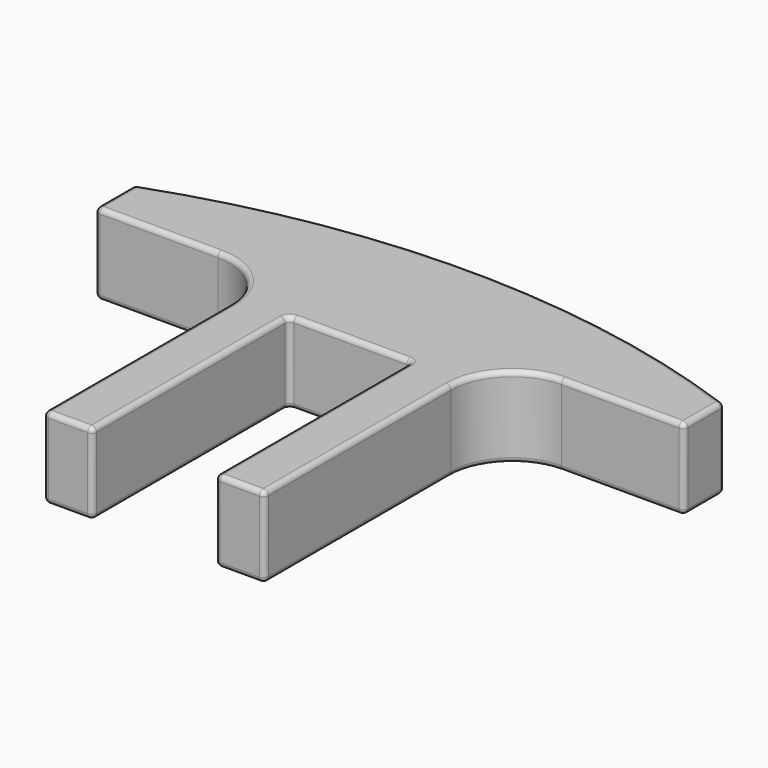
from build123d import *

# Parameters (mm, degrees)
F1_DEPTH = 8.382
F2_R     = 0.508


with BuildPart() as f1:
    # F0 (on Top) → F1 (new body)
    with BuildSketch(Plane.XY):
        with BuildLine():
            Line((-16.819511, 28.70391), (-16.819511, 4.57391))
            Line((-16.819511, 4.57391), (-11.739511, 4.57391))
            Line((-11.739511, 4.57391), (-11.739511, 29.97391))
            Line((-11.739511, 29.97391), (0.960489, 29.97391))
            Line((0.960489, 29.97391), (0.960489, 4.57391))
            Line((0.960489, 4.57391), (6.040489, 4.57391))
            Line((6.040489, 4.57391), (6.040489, 28.70391))
            ThreePointArc((6.040489, 28.70391), (7.900361, 33.194038), (12.390489, 35.05391))
            Line((12.390489, 35.05391), (25.090489, 35.05391))
            Line((25.090489, 35.05391), (25.090489, 40.13391))
            ThreePointArc((25.090489, 40.13391), (-5.389511, 45.511487), (-35.869511, 40.13391))
            Line((-35.869511, 40.13391), (-35.869511, 35.05391))
            Line((-35.869511, 35.05391), (-23.169511, 35.05391))
            ThreePointArc((-23.169511, 35.05391), (-18.679383, 33.194038), (-16.819511, 28.70391))
        make_face()
        with BuildLine():
            Line((-16.819511, 28.70391), (-16.819511, 4.57391))
            Line((-16.819511, 4.57391), (-11.739511, 4.57391))
            Line((-11.739511, 4.57391), (-11.739511, 29.97391))
            Line((-11.739511, 29.97391), (0.960489, 29.97391))
            Line((0.960489, 29.97391), (0.960489, 4.57391))
            Line((0.960489, 4.57391), (6.040489, 4.57391))
            Line((6.040489, 4.57391), (6.040489, 28.70391))
            ThreePointArc((6.040489, 28.70391), (7.900361, 33.194038), (12.390489, 35.05391))
            Line((12.390489, 35.05391), (25.090489, 35.05391))
            Line((25.090489, 35.05391), (25.090489, 40.13391))
            ThreePointArc((25.090489, 40.13391), (-5.389511, 45.511487), (-35.869511, 40.13391))
            Line((-35.869511, 40.13391), (-35.869511, 35.05391))
            Line((-35.869511, 35.05391), (-23.169511, 35.05391))
            ThreePointArc((-23.169511, 35.05391), (-18.679383, 33.194038), (-16.819511, 28.70391))
        make_face()
    extrude(amount=F1_DEPTH)

    # F2
    f2_edges = [f1.edges().sort_by_distance(p)[0] for p in [
        (6.040489, 16.63891, 8.382),
        (3.500489, 4.57391, 8.382),
        (-35.869511, 37.59391, 8.382),
        (-29.519511, 35.05391, 8.382),
        (-18.679383, 33.194038, 8.382),
        (-16.819511, 16.63891, 8.382),
        (-14.279511, 4.57391, 8.382),
        (-11.739511, 17.27391, 8.382),
        (-5.389511, 29.97391, 8.382),
        (0.960489, 17.27391, 8.382),
        (7.900361, 33.194038, 8.382),
        (18.740489, 35.05391, 8.382),
        (25.090489, 37.59391, 8.382),
        (-5.389511, 45.511487, 8.382),
        (-5.389511, 45.511487, 0),
        (25.090489, 37.59391, 0),
        (18.740489, 35.05391, 0),
        (-35.869511, 37.59391, 0),
        (-29.519511, 35.05391, 0),
        (-18.679383, 33.194038, 0),
        (-16.819511, 16.63891, 0),
        (-14.279511, 4.57391, 0),
        (-11.739511, 17.27391, 0),
        (-5.389511, 29.97391, 0),
        (0.960489, 17.27391, 0),
        (3.500489, 4.57391, 0),
        (6.040489, 16.63891, 0),
        (7.900361, 33.194038, 0),
        (25.090489, 40.13391, 4.191),
        (-35.869511, 40.13391, 4.191),
        (12.390489, 35.05391, 4.191),
        (25.090489, 35.05391, 4.191),
        (6.040489, 4.57391, 4.191),
        (6.040489, 28.70391, 4.191),
        (0.960489, 29.97391, 4.191),
        (0.960489, 4.57391, 4.191),
        (-11.739511, 4.57391, 4.191),
        (-11.739511, 29.97391, 4.191),
        (-16.819511, 4.57391, 4.191),
        (-16.819511, 28.70391, 4.191),
        (-35.869511, 35.05391, 4.191),
        (-23.169511, 35.05391, 4.191),
    ]]
    fillet(f2_edges, radius=F2_R)


solid = f1.part
